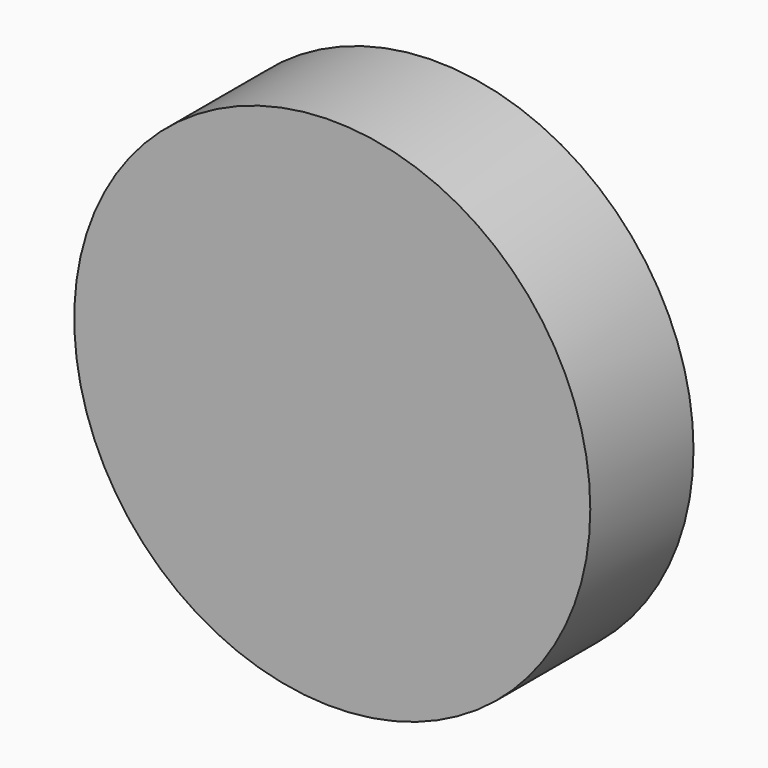
from build123d import *

# Parameters (mm, degrees)
BOX252_W          = 40
BOX252_H          = 20
BOX252_DEPTH      = 40
CYLINDER650_R     = 4.1
CYLINDER650_DEPTH = 10
CYLINDER649_R     = 8
CYLINDER649_DEPTH = 8


with BuildPart() as krychle252:
    # Box252 → Box252 (new body)
    with BuildSketch(Plane(origin=(-20, 110, 30), x_dir=(1, 0, 0), z_dir=(0, 0, 1))):
        with Locations((20, 10)):
            Rectangle(BOX252_W, BOX252_H)
    extrude(amount=BOX252_DEPTH)


with BuildPart() as obj1:
    # Cylinder650 → Cylinder650 (new body)
    with BuildSketch(Plane(origin=(0, 118, 50), x_dir=(1, 0, 0), z_dir=(0, -1, 0))):
        Circle(CYLINDER650_R)
    extrude(amount=CYLINDER650_DEPTH)


with BuildPart() as cut260:
    # Cylinder649 → Cylinder649 (new body)
    with BuildSketch(Plane(origin=(0, 114, 50), x_dir=(1, 0, 0), z_dir=(0, -1, 0))):
        Circle(CYLINDER649_R)
    extrude(amount=CYLINDER649_DEPTH)

    # Cut255: cut obj1
    add(obj1.part, mode=Mode.SUBTRACT)

    # Cut260: cut Krychle252
    add(krychle252.part, mode=Mode.SUBTRACT)


solid = cut260.part
